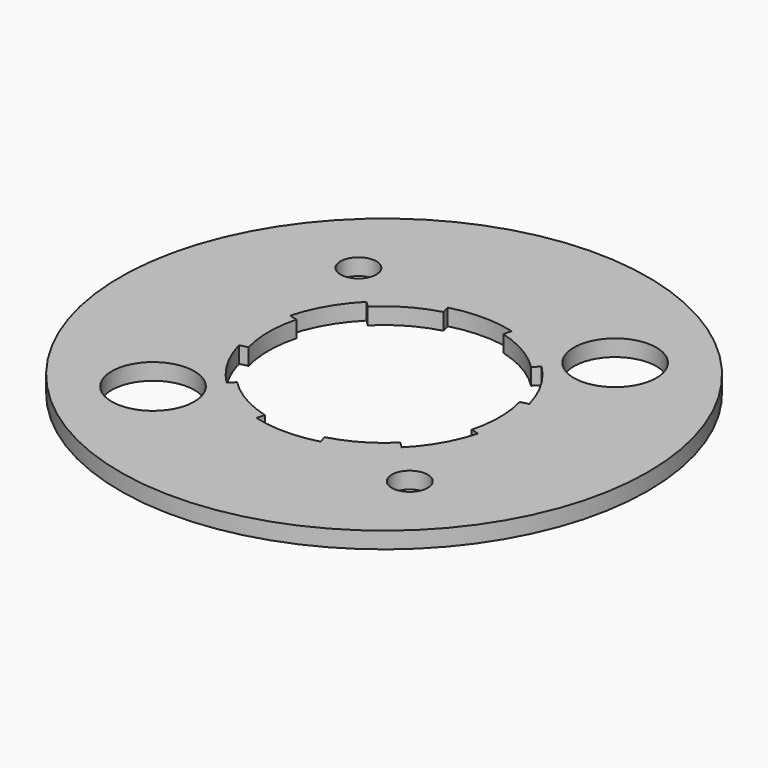
from build123d import *

# Parameters (mm, degrees)
F0_R     = 25.3907018743
F0_R_2   = 3.96875
F0_R_3   = 1.7272
F0_R_4   = 11.1125
F1_DEPTH = 1.5875
F3_DEPTH = 1.5875
F4_COUNT = 6
F4_ANGLE = 300


with BuildPart() as f1:
    # F0 (on Top) → F1 (new body)
    with BuildSketch(Plane.XY):
        Circle(F0_R)
        with Locations((-12.3478521665, -12.3478521665)):
            Circle(F0_R_2, mode=Mode.SUBTRACT)
        with Locations((12.3478521665, -12.3478521665)):
            Circle(F0_R_3, mode=Mode.SUBTRACT)
        with Locations((-12.3478521665, 12.3478521665)):
            Circle(F0_R_3, mode=Mode.SUBTRACT)
        Circle(F0_R_4, mode=Mode.SUBTRACT)
        with Locations((12.3478521665, 12.3478521665)):
            Circle(F0_R_2, mode=Mode.SUBTRACT)
    extrude(amount=F1_DEPTH)

    # F2 (on face) → F3 (cut, through all)
    with BuildSketch(Plane.XY.offset(1.5875)):
        with BuildLine():
            ThreePointArc((-2.8761266387, 10.7338507446), (0, 11.1125), (2.8761266387, 10.7338507446))
            Line((2.8761266387, 10.7338507446), (3.0815642558, 11.5005543693))
            ThreePointArc((3.0815642558, 11.5005543693), (0, 11.90625), (-3.0815642558, 11.5005543693))
            Line((-3.0815642558, 11.5005543693), (-2.8761266387, 10.7338507446))
        make_face()
    f3 = extrude(amount=-F3_DEPTH, mode=Mode.SUBTRACT)

    # F4: F3 ×6 about axis
    f4_axis = Axis((0, 0, 0), (0, 0, -1))
    for i in range(1, F4_COUNT):
        add(f3.rotate(f4_axis, i * F4_ANGLE / (F4_COUNT - 1)), mode=Mode.SUBTRACT)


solid = f1.part
